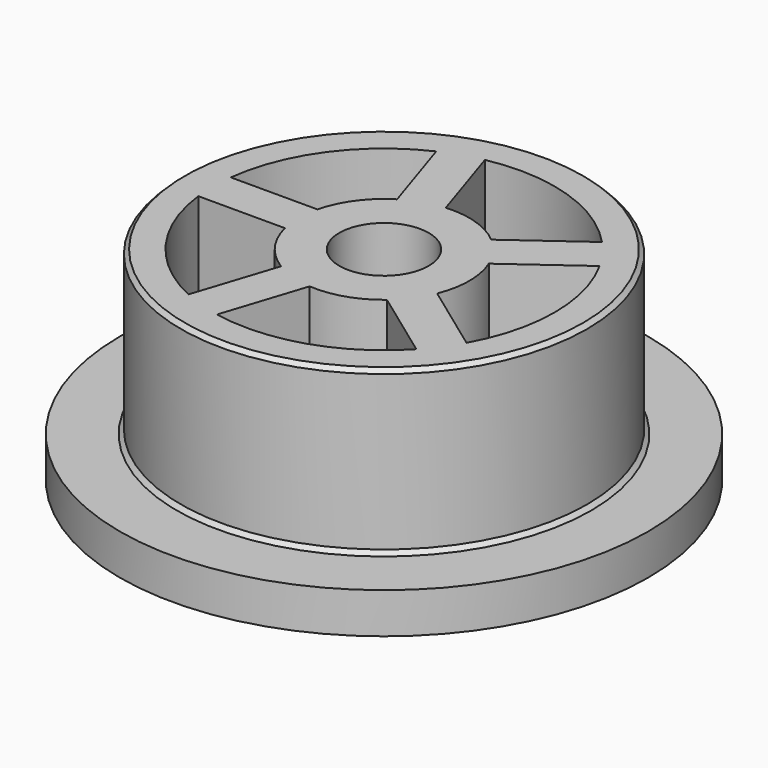
from build123d import *

# Parameters (mm, degrees)
F0_R     = 25
F0_R_2   = 21
F1_DEPTH = 20
F2_R     = 32.5
F3_DEPTH = 5
F4_R     = 5.5
F5_DEPTH = 5
F6_R     = 10.5
F6_R_2   = 5.5
F7_DEPTH = 20
F9_DEPTH = 20
F10_SIZE = 0.5


with BuildPart() as f1:
    # F0 (on Top) → F1 (new body)
    with BuildSketch(Plane.XY):
        Circle(F0_R)
        Circle(F0_R_2, mode=Mode.SUBTRACT)
    extrude(amount=F1_DEPTH)

    # F2 (on Top) → F3 (join)
    with BuildSketch(Plane.XY):
        Circle(F2_R)
    extrude(amount=-F3_DEPTH)

    # F4 (on face) → F5 (cut, through all)
    with BuildSketch(Plane(origin=(0, 0, -5), x_dir=(1, 0, 0), z_dir=(0, 0, -1))):
        Circle(F4_R)
    extrude(amount=-F5_DEPTH, mode=Mode.SUBTRACT)

    # F6 (on face) → F7 (join)
    with BuildSketch(Plane.XY):
        Circle(F6_R)
        Circle(F6_R_2, mode=Mode.SUBTRACT)
    extrude(amount=F7_DEPTH)

    # F8 (on face) → F9 (join)
    with BuildSketch(Plane.XY):
        with BuildLine():
            Line((-5.5290086594, -8.9263689843), (-8.8208494084, -19.0576130644))
            ThreePointArc((-8.8208494084, -19.0576130644), (-6.4893568819, -19.9721868422), (-4.0655668269, -20.6026980363))
            Line((-4.0655668269, -20.6026980363), (-0.773726078, -10.4714539562))
            ThreePointArc((-0.773726078, -10.4714539562), (-3.2446784409, -9.9860934211), (-5.5290086594, -8.9263689843))
        make_face()
        with BuildLine():
            ThreePointArc((18.3380009794, 10.2331676464), (16.9893568819, 12.3434902981), (15.3990747179, 14.2782526183))
            Line((15.3990747179, 14.2782526183), (6.7809237516, 8.0167994284))
            ThreePointArc((6.7809237516, 8.0167994284), (8.4946784409, 6.1717451491), (9.719850013, 3.9717144565))
            Line((9.719850013, 3.9717144565), (18.3380009794, 10.2331676464))
        make_face()
        with BuildLine():
            Line((6.7809237516, -8.0167994284), (15.3990747179, -14.2782526183))
            ThreePointArc((15.3990747179, -14.2782526183), (16.9893568819, -12.3434902981), (18.3380009794, -10.2331676464))
            Line((18.3380009794, -10.2331676464), (9.719850013, -3.9717144565))
            ThreePointArc((9.719850013, -3.9717144565), (8.4946784409, -6.1717451491), (6.7809237516, -8.0167994284))
        make_face()
        with BuildLine():
            ThreePointArc((-4.0655668269, 20.6026980363), (-6.4893568819, 19.9721868422), (-8.8208494084, 19.0576130644))
            Line((-8.8208494084, 19.0576130644), (-5.5290086594, 8.9263689843))
            ThreePointArc((-5.5290086594, 8.9263689843), (-3.2446784409, 9.9860934211), (-0.773726078, 10.4714539562))
            Line((-0.773726078, 10.4714539562), (-4.0655668269, 20.6026980363))
        make_face()
        with BuildLine():
            Line((-10.1980390272, 2.5), (-20.850659462, 2.5))
            ThreePointArc((-20.850659462, 2.5), (-21, 0), (-20.850659462, -2.5))
            Line((-20.850659462, -2.5), (-10.1980390272, -2.5))
            ThreePointArc((-10.1980390272, -2.5), (-10.5, 0), (-10.1980390272, 2.5))
        make_face()
    extrude(amount=F9_DEPTH)

    # F10
    f10_edges = [f1.edges().sort_by_distance(p)[0] for p in [
        (25, 0, 10),
        (-25, 0, 0),
        (-25, 0, 20),
    ]]
    chamfer(f10_edges, length=F10_SIZE)


solid = f1.part
